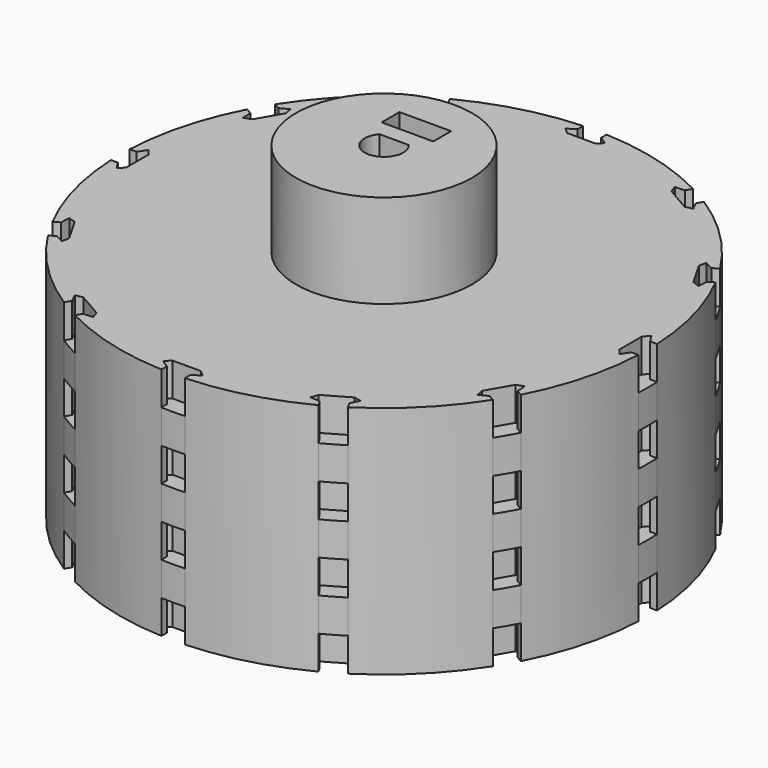
from build123d import *

# Parameters (mm, degrees)
SKETCH119_R        = 28.575
PAD043_DEPTH       = 25.4
POCKET043_DEPTH    = 194.840134
POLARPATTERN_COUNT = 12
SKETCH121_R        = 9.525
PAD044_DEPTH       = 10.16
SKETCH122_R        = 1.7399
POCKET044_DEPTH    = 11.43
SKETCH123_W        = 5.588
SKETCH123_H        = 2.413
POCKET045_DEPTH    = 9.525
SKETCH124_R        = 4.706723
PAD045_DEPTH       = 5.08


with BuildPart() as part:
    # Sketch119 → Pad043 (new body)
    with BuildSketch(Plane.XY):
        Circle(SKETCH119_R)
        with BuildLine():
            ThreePointArc((-1.5875, 1.367832), (0, -2.0955), (1.5875, 1.367832))
            Line((-1.5875, 1.367832), (1.5875, 1.367832))
        make_face(mode=Mode.SUBTRACT)
    extrude(amount=PAD043_DEPTH)

    # Sketch120 (on Face5 of Pad043) → Pocket043 (cut, through all)
    with BuildSketch(Plane.XY.offset(25.4)):
        Polygon((1.27, 30.024157), (1.27, 27.802982), (2.141168, 27.233526), (1.524, 26.687315), (0, 26.687315), (-1.524, 26.687315), (-2.141168, 27.233526), (-1.27, 27.802982), (-1.27, 30.024157), align=None)
    pocket043 = extrude(amount=-POCKET043_DEPTH, mode=Mode.SUBTRACT)

    # PolarPattern: Pocket043 ×12 about axis
    polarpattern_axis = Axis((0, 0, 25.4), (0, 0, 1))
    for i in range(1, POLARPATTERN_COUNT):
        add(pocket043.rotate(polarpattern_axis, i * 360 / POLARPATTERN_COUNT), mode=Mode.SUBTRACT)

    # Sketch121 (on Face4 of PolarPattern) → Pad044 (join)
    with BuildSketch(Plane.XY.offset(25.4)):
        Circle(SKETCH121_R)
        with BuildLine():
            Line((-1.5875, 1.367832), (1.5875, 1.367832))
            ThreePointArc((-1.5875, 1.367832), (0, -2.0955), (1.5875, 1.367832))
        make_face(mode=Mode.SUBTRACT)
    extrude(amount=PAD044_DEPTH)

    # Sketch122 (on DatumPlane) → Pocket044 (cut)
    with BuildSketch(Plane.XZ.offset(-1.367832)):
        with Locations((0, 30.1625)):
            Circle(SKETCH122_R)
    extrude(amount=-POCKET044_DEPTH, mode=Mode.SUBTRACT)

    # Sketch123 (on Face116 of Pocket044) → Pocket045 (cut)
    with BuildSketch(Plane.XY.offset(35.56)):
        with Locations((0, 4.3815)):
            Rectangle(SKETCH123_W, SKETCH123_H)
    extrude(amount=-POCKET045_DEPTH, mode=Mode.SUBTRACT)

    # Sketch124 (on Face2 of Pocket045) → Pad045 (join)
    with BuildSketch(Plane(origin=(0, 0, 0), x_dir=(1, 0, 0), z_dir=(0, 0, -1))):
        Circle(SKETCH124_R)
    extrude(amount=-PAD045_DEPTH)

    # Sketch130 → Revolution (revolve)
    with BuildSketch(Plane.YZ):
        Polygon((25.466484, 25.4), (25.466484, 21.780249), (28.574821, 21.780249), (28.574821, 18.139917), (25.466484, 18.139917), (25.466484, 14.520166), (28.574821, 14.520166), (28.574821, 10.879834), (25.466484, 10.879834), (25.466484, 7.260083), (28.574821, 7.260083), (28.574821, 3.619751), (25.466484, 3.619751), (25.466484, 0), (20.072759, 0), (20.072759, 25.4), align=None)
    revolve(axis=Axis((0, 0, 0), (0, 0, 1)))


solid = part.part
